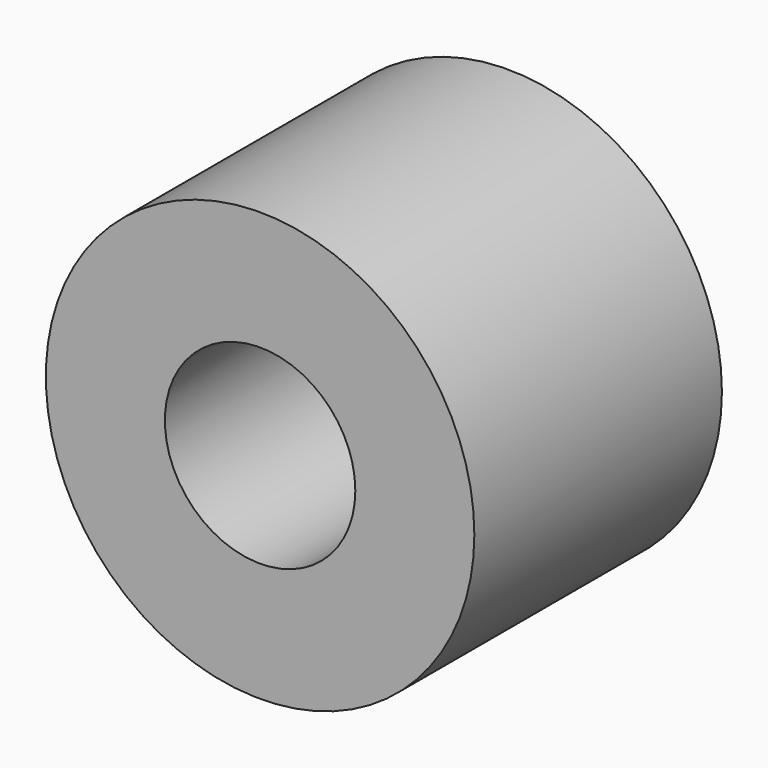
from build123d import *

# Parameters (mm, degrees)
CYLINDER385_R          = 0.4
CYLINDER385_DEPTH      = 1.3
CYLINDER369_R          = 0.9
CYLINDER369_DEPTH      = 1.3
CUT184_PLACEMENT_ANGLE = 90


with BuildPart() as cylinder385:
    # Cylinder385 → Cylinder385 (new body)
    with BuildSketch(Plane.XY):
        Circle(CYLINDER385_R)
    extrude(amount=CYLINDER385_DEPTH)


with BuildPart() as contact006:
    # Cylinder369 → Cylinder369 (new body)
    with BuildSketch(Plane.XY):
        Circle(CYLINDER369_R)
    extrude(amount=CYLINDER369_DEPTH)

    # Cut184: cut Cylinder385
    add(cylinder385.part, mode=Mode.SUBTRACT)


with BuildPart() as contact006_1:
    # Cut184 placement: moved
    add(contact006.part.moved(Location((-9.54, 1.3, -17))).rotate(Axis((-9.54, 1.3, -17), (1, 0, 0)), CUT184_PLACEMENT_ANGLE))


solid = contact006_1.part
